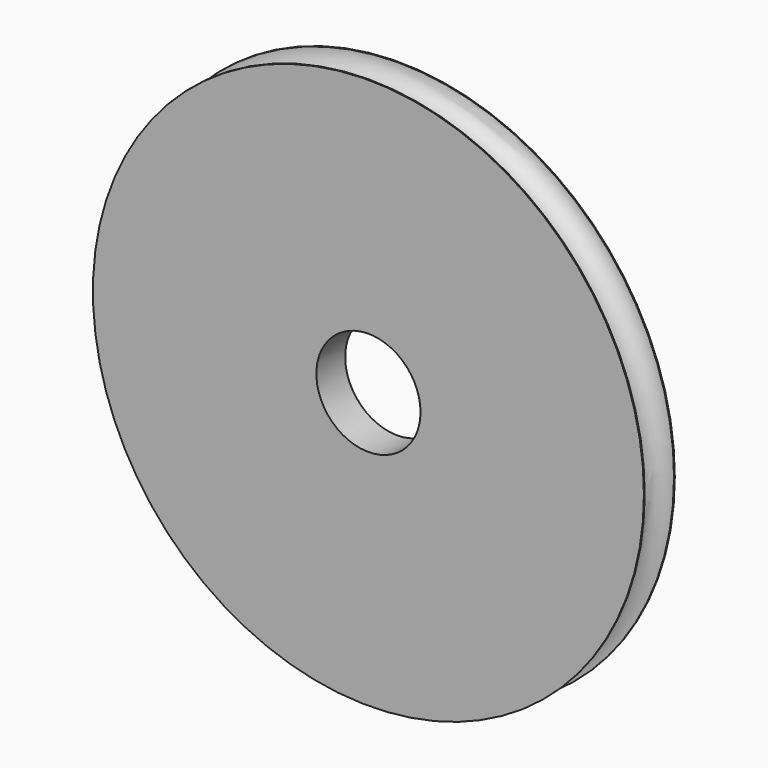
from build123d import *

# Parameters (mm, degrees)
F0_R     = 21.425
F0_R_2   = 4.05
F1_DEPTH = 1.5
F4_SIZE  = 0.2


with BuildPart() as f1:
    # F0 (on Front) → F1 (new body, symmetric)
    with BuildSketch(Plane.XZ):
        Circle(F0_R)
        Circle(F0_R_2, mode=Mode.SUBTRACT)
    extrude(amount=F1_DEPTH, both=True)

    # F2 (on Right) → F3 (revolve, cut)
    with BuildSketch(Plane.YZ):
        with BuildLine():
            ThreePointArc((-1.425, 21.425), (-1.007627, 20.417373), (0, 20))
            Line((0, 20), (0, 21.425))
            Line((0, 21.425), (-1.425, 21.425))
        make_face()
        with BuildLine():
            Line((0, 21.425), (0, 20))
            ThreePointArc((0, 20), (1.007627, 20.417373), (1.425, 21.425))
            Line((1.425, 21.425), (0, 21.425))
        make_face()
    revolve(axis=Axis((0, -4.904328, 0), (0, -1, 0)), mode=Mode.SUBTRACT)

    # F4
    f4_edges = [f1.edges().sort_by_distance(p)[0] for p in [
        (-4.05, 1.5, 0),
    ]]
    chamfer(f4_edges, length=F4_SIZE)


solid = f1.part
